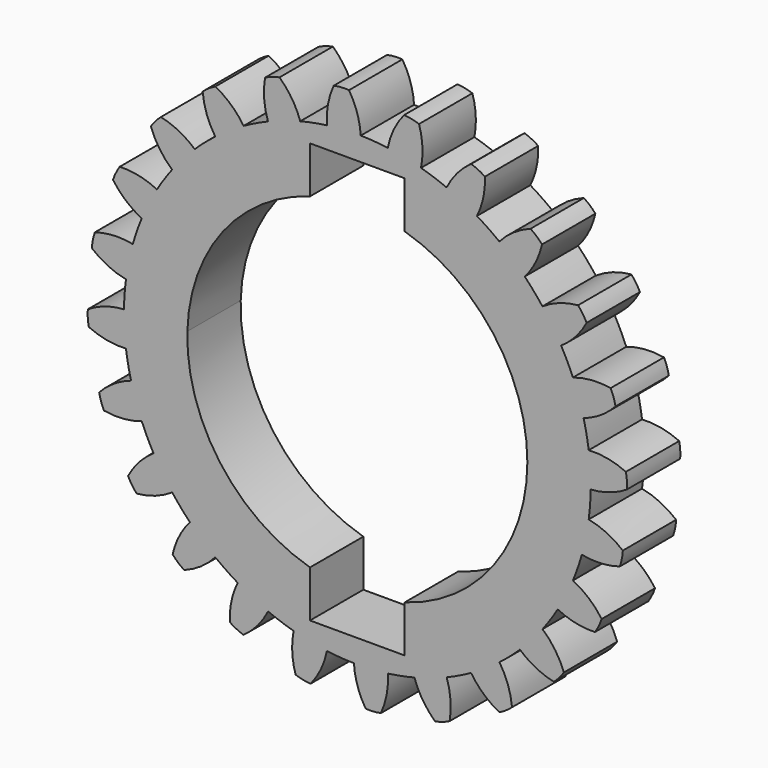
from build123d import *

# Parameters (mm, degrees)
F1_DEPTH = 12.7
F2_COUNT = 24
F2_ANGLE = 345
F3_W     = 18.034
F3_H     = 80.01
F4_DEPTH = 25.4


with BuildPart() as f1:
    # F0 (on Front) → F1 (new body)
    with BuildSketch(Plane.XZ):
        with BuildLine():
            ThreePointArc((-5.811181, 44.0685), (-29.304398, -33.422369), (44.45, 0))
            ThreePointArc((44.45, 0), (31.659609, 31.200508), (0.649249, 44.445258))
            ThreePointArc((0.649249, 44.445258), (-2.587831, 44.374606), (-5.811181, 44.0685))
        make_face()
        with BuildLine():
            ThreePointArc((7.516504, 31.500641), (25.418598, 20.066966), (32.385, 0))
            ThreePointArc((32.385, 0), (25.418598, -20.066966), (7.516504, -31.500641))
            Line((7.516504, -31.500641), (7.516504, -39.878))
            Line((7.516504, -39.878), (-7.871554, -39.878))
            Line((-7.871554, -39.878), (-7.871554, -31.4138))
            ThreePointArc((-7.871554, -31.4138), (-32.385, 0), (-7.871554, 31.4138))
            Line((-7.871554, 31.4138), (-7.871554, 39.878))
            Line((-7.871554, 39.878), (7.516504, 39.878))
            Line((7.516504, 39.878), (7.516504, 31.500641))
        make_face(mode=Mode.SUBTRACT)
        with BuildLine():
            ThreePointArc((-5.811181, 44.0685), (-2.587831, 44.374606), (0.649249, 44.445258))
            ThreePointArc((0.649249, 44.445258), (-0.034359, 48.03246), (-1.586488, 51.337946))
            ThreePointArc((-1.586488, 51.337946), (-3.045553, 51.345424), (-4.491159, 51.147564))
            ThreePointArc((-4.491159, 51.147564), (-5.594305, 47.690663), (-5.811181, 44.0685))
        make_face()
    extrude(amount=F1_DEPTH)

    # F2: F1 ×24 about axis
    f2_axis = Axis((0, 0, 0), (0, 1, 0))


with BuildPart() as f1_1:
    add(f1.part)
    for i in range(1, F2_COUNT):
        add(f1.part.rotate(f2_axis, i * F2_ANGLE / (F2_COUNT - 1)))

    # F3 (on Front) → F4 (cut, symmetric)
    with BuildSketch(Plane.XZ):
        Rectangle(F3_W, F3_H)
        Rectangle(F3_W, F3_H)
    extrude(amount=F4_DEPTH, both=True, mode=Mode.SUBTRACT)


solid = f1_1.part
